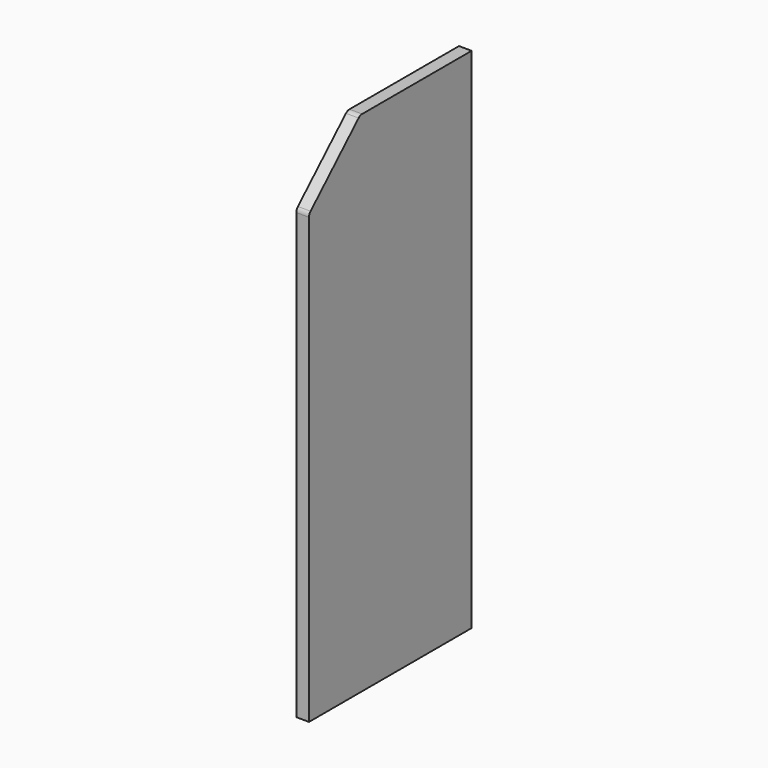
from build123d import *

# Parameters (mm, degrees)
F1_DEPTH = 12.7
F2_ANGLE = 180


with BuildPart() as f1:
    # F0 (on Right) → F1 (new body)
    with BuildSketch(Plane.YZ):
        with BuildLine():
            Line((0, 508), (0, 0))
            Line((0, 0), (203.2, 0))
            Line((203.2, 0), (203.2, 444.053235))
            ThreePointArc((203.2, 444.053235), (202.691326, 446.543499), (201.246799, 448.634792))
            Line((201.246799, 448.634792), (141.229756, 506.231557))
            ThreePointArc((141.229756, 506.231557), (139.202516, 507.541324), (136.832958, 508))
            Line((136.832958, 508), (0, 508))
        make_face()
    extrude(amount=F1_DEPTH)


with BuildPart() as f1_1:
    # F2: moved
    add(f1.part.rotate(Axis((12.7, 0, 254), (0, 0, -1)), F2_ANGLE))


solid = f1_1.part
